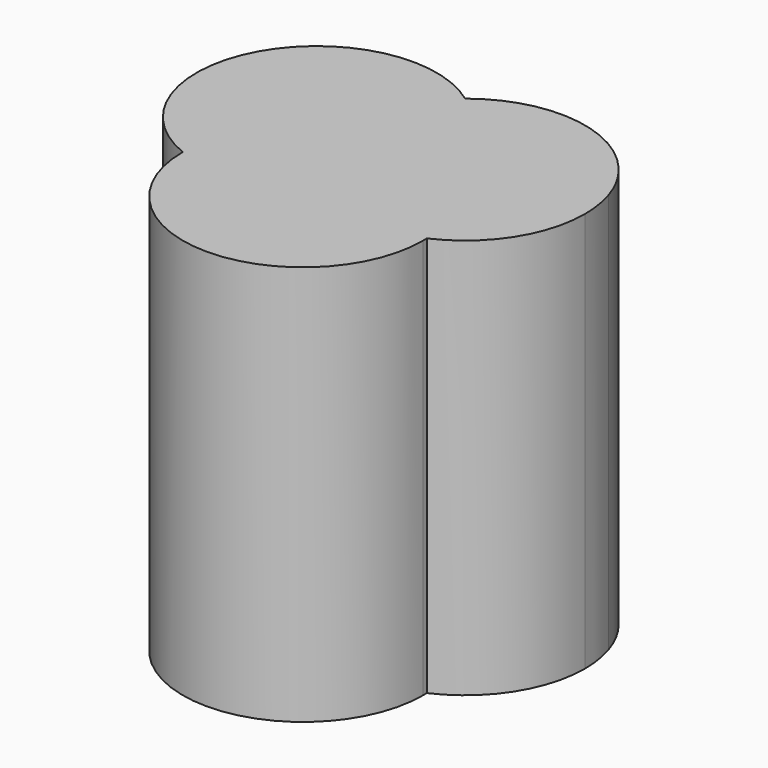
from build123d import *

# Parameters (mm, degrees)
F1_DEPTH = 6


with BuildPart() as f1:
    # F0 (on Top) → F1 (new body)
    with BuildSketch(Plane.XY):
        with BuildLine():
            ThreePointArc((-782.8108229719, 316.071718416), (-782.9031509549, 316.304858246), (-783.026982617, 316.5229049295))
            ThreePointArc((-783.026982617, 316.5229049295), (-782.9094811402, 316.3018255077), (-782.8108229719, 316.071718416))
        make_face()
        with BuildLine():
            ThreePointArc((-783.7858049809, 313.886586525), (-784.7140567778, 313.7369427263), (-785.5911241746, 314.075760445))
            ThreePointArc((-785.5911241746, 314.075760445), (-786.452085755, 313.7016307347), (-787.3843295654, 313.8118548753))
            ThreePointArc((-787.3843295654, 313.8118548753), (-785.5833850086, 312.0137462238), (-783.7843305588, 313.8137459755))
            ThreePointArc((-783.7843305588, 313.8137459755), (-783.7846992021, 313.8501737107), (-783.7858049809, 313.886586525))
        make_face()
        with BuildLine():
            ThreePointArc((-787.3843295654, 313.8118548753), (-786.452085755, 313.7016307347), (-785.5911241746, 314.075760445))
            ThreePointArc((-785.5911241746, 314.075760445), (-786.1153495113, 314.6812963137), (-786.3249929012, 315.4543005447))
            ThreePointArc((-786.3249929012, 315.4543005447), (-787.0969927705, 314.7893755329), (-787.3843295654, 313.8118548753))
        make_face()
        with BuildLine():
            ThreePointArc((-786.3249929012, 315.4543005447), (-786.163887167, 316.2747079845), (-785.6495114244, 316.9338293848))
            ThreePointArc((-785.6495114244, 316.9338293848), (-788.2875683827, 316.3567553772), (-787.3843295654, 313.8118548753))
            ThreePointArc((-787.3843295654, 313.8118548753), (-787.0969927705, 314.7893755329), (-786.3249929012, 315.4543005447))
        make_face()
        with BuildLine():
            ThreePointArc((-785.6495114244, 316.9338293848), (-785.1089211657, 316.2968084324), (-784.9141692691, 315.4843398357))
            ThreePointArc((-784.9141692691, 315.4843398357), (-784.1140218759, 314.8521064028), (-783.7858049809, 313.886586525))
            ThreePointArc((-783.7858049809, 313.886586525), (-783.014317824, 314.5507170614), (-782.7264673233, 315.5271410942))
            ThreePointArc((-782.7264673233, 315.5271410942), (-782.7476812439, 315.8026770877), (-782.8108229719, 316.071718416))
            ThreePointArc((-782.8108229719, 316.071718416), (-782.9094811402, 316.3018255077), (-783.026982617, 316.5229049295))
            ThreePointArc((-783.026982617, 316.5229049295), (-784.2478248834, 317.3054432032), (-785.6495114244, 316.9338293848))
        make_face()
        with BuildLine():
            ThreePointArc((-784.9141692691, 315.4843398357), (-784.9141685241, 315.4833942858), (-784.9141682757, 315.4824487356))
            ThreePointArc((-784.9141682757, 315.4824487356), (-785.0922127612, 314.7018974503), (-785.5911241746, 314.075760445))
            ThreePointArc((-785.5911241746, 314.075760445), (-784.7140567778, 313.7369427263), (-783.7858049809, 313.886586525))
            ThreePointArc((-783.7858049809, 313.886586525), (-784.1140218759, 314.8521064028), (-784.9141692691, 315.4843398357))
        make_face()
        with BuildLine():
            ThreePointArc((-785.5911241746, 314.075760445), (-785.0922127612, 314.7018974503), (-784.9141682757, 315.4824487356))
            ThreePointArc((-784.9141682757, 315.4824487356), (-784.9141685241, 315.4833942858), (-784.9141692691, 315.4843398357))
            ThreePointArc((-784.9141692691, 315.4843398357), (-785.622647518, 315.6133380989), (-786.3249929012, 315.4543005447))
            ThreePointArc((-786.3249929012, 315.4543005447), (-786.1153495113, 314.6812963137), (-785.5911241746, 314.075760445))
        make_face()
        with BuildLine():
            ThreePointArc((-786.3249929012, 315.4543005447), (-785.622647518, 315.6133380989), (-784.9141692691, 315.4843398357))
            ThreePointArc((-784.9141692691, 315.4843398357), (-785.1089211657, 316.2968084324), (-785.6495114244, 316.9338293848))
            ThreePointArc((-785.6495114244, 316.9338293848), (-786.163887167, 316.2747079845), (-786.3249929012, 315.4543005447))
        make_face()
    extrude(amount=F1_DEPTH)


solid = f1.part
